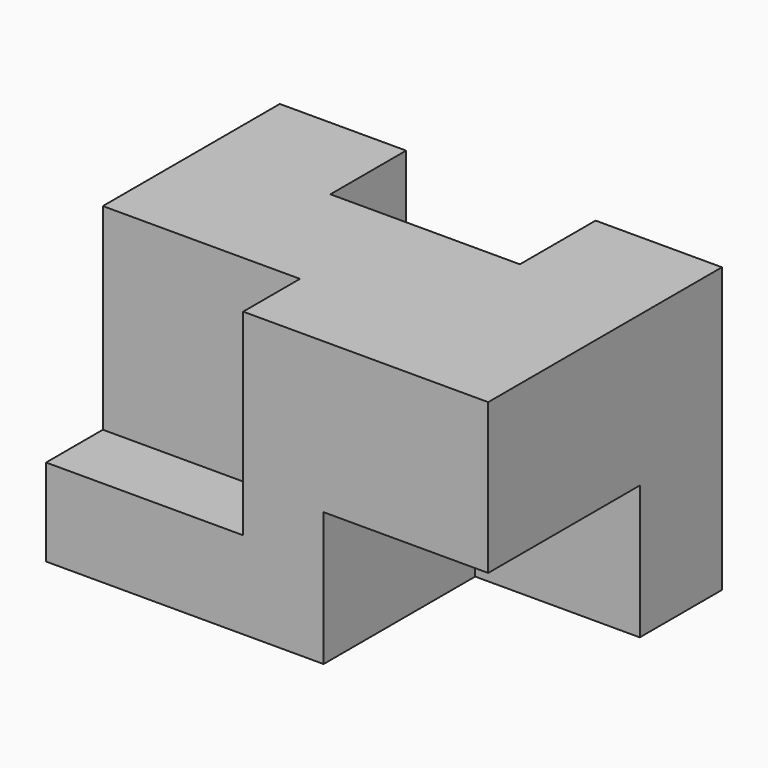
from build123d import *

# Parameters (mm, degrees)
F1_DEPTH = 35.9918
F2_W     = 24.9682
F2_H     = 8.9916
F3_DEPTH = 24.9428
F4_W     = 20.8534
F4_H     = 16.9418
F5_DEPTH = 24.003


with BuildPart() as f1:
    # F0 (on Top) → F1 (new body)
    with BuildSketch(Plane.XY):
        Polygon((16.002, 0), (0, 0), (0, -37.0078), (56.007, -37.0078), (56.007, 0), (40.005, 0), (40.005, -11.9888), (16.002, -11.9888), align=None)
    extrude(amount=F1_DEPTH)

    # F2 (on face) → F3 (cut)
    with BuildSketch(Plane.XY.offset(35.9918)):
        with Locations((12.4841, -32.512)):
            Rectangle(F2_W, F2_H)
    extrude(amount=-F3_DEPTH, mode=Mode.SUBTRACT)

    # F4 (on face) → F5 (cut)
    with BuildSketch(Plane.XZ.offset(37.0078)):
        with Locations((45.5803, 8.4709)):
            Rectangle(F4_W, F4_H)
    extrude(amount=-F5_DEPTH, mode=Mode.SUBTRACT)


solid = f1.part
